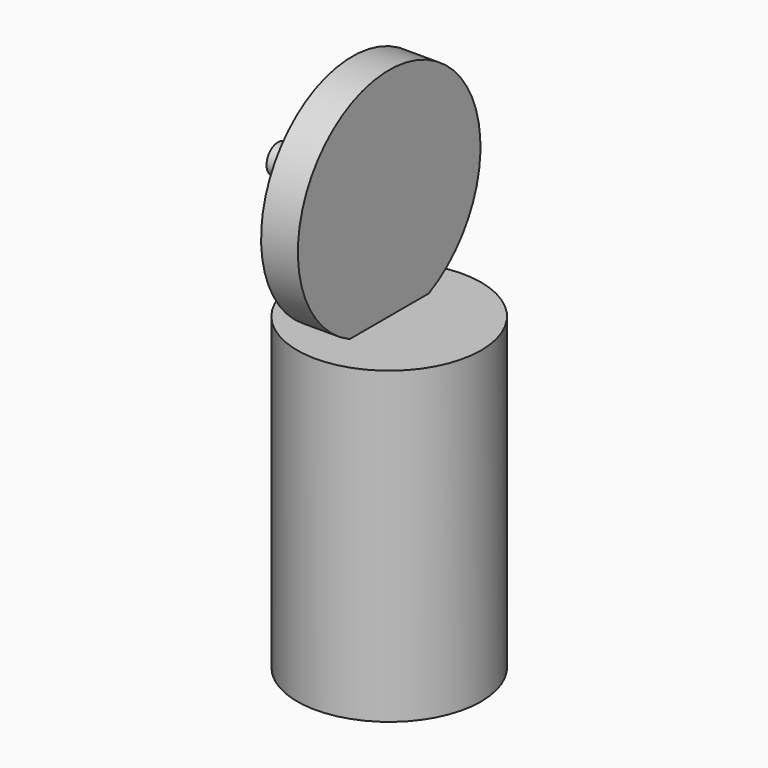
from build123d import *

# Parameters (mm, degrees)
F0_R     = 31.75
F1_DEPTH = 106.68
F4_R     = 39.37
F5_DEPTH = 12.7
F6_R     = 4.953
F7_DEPTH = 25.654


with BuildPart() as f1:
    # F0 (on Top) → F1 (new body)
    with BuildSketch(Plane.XY):
        Circle(F0_R)
    extrude(amount=F1_DEPTH)

    # F4 (on face) → F5 (join)
    with BuildSketch(Plane(origin=(0, 0, 0), x_dir=(0, -1, 0), z_dir=(-1, 0, 0))):
        with Locations((0, 142.158583)):
            Circle(F4_R)
    extrude(amount=F5_DEPTH)

    # F6 (on face) → F7 (join)
    with BuildSketch(Plane(origin=(-12.7, 0, 0), x_dir=(0, -1, 0), z_dir=(-1, 0, 0))):
        with Locations((0, 142.158583)):
            Circle(F6_R)
    extrude(amount=F7_DEPTH)


solid = f1.part
